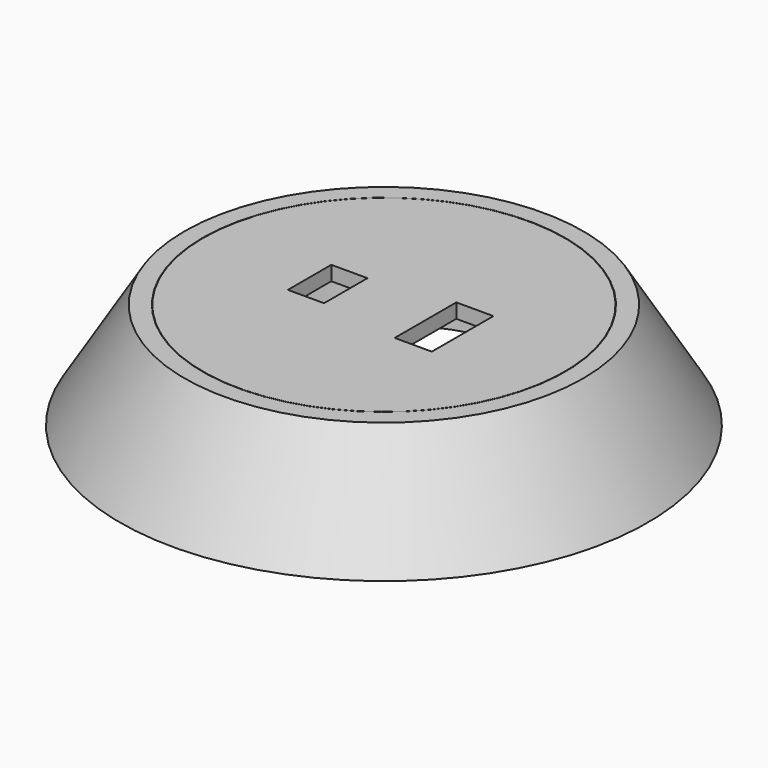
from build123d import *

# Parameters (mm, degrees)
F0_W     = 50
F0_H     = 4
F3_W     = 10
F3_H     = 15
F3_W_2   = 10.259356
F3_H_2   = 21.278652
F4_DEPTH = 4


with BuildPart() as f1:
    # F0 (on Front) → F1 (revolve)
    with BuildSketch(Plane.XZ):
        with Locations((-25, 27.268396)):
            Rectangle(F0_W, F0_H)
    revolve(axis=Axis((0, 0, 27.268396), (0, 0, -1)))

    # F3 (on face) → F4 (cut, through all)
    with BuildSketch(Plane.XY.offset(29.268396)):
        with Locations((-15.544331, 0)):
            Rectangle(F3_W, F3_H)
        with Locations((16.623944, 0)):
            Rectangle(F3_W_2, F3_H_2)
    extrude(amount=-F4_DEPTH, mode=Mode.SUBTRACT)


with BuildPart() as f2:
    # F0 (on Front) → F2 (revolve)
    with BuildSketch(Plane.XZ):
        Polygon((-72.95537, 0), (-46.927024, 0), (-46.927024, 25.068396), (-50.1, 25.068396), (-50.1, 29.268396), (-55.096503, 29.268396), align=None)
    revolve(axis=Axis((0, 0, 27.268396), (0, 0, -1)))


solid = Compound([f1.part, f2.part])
